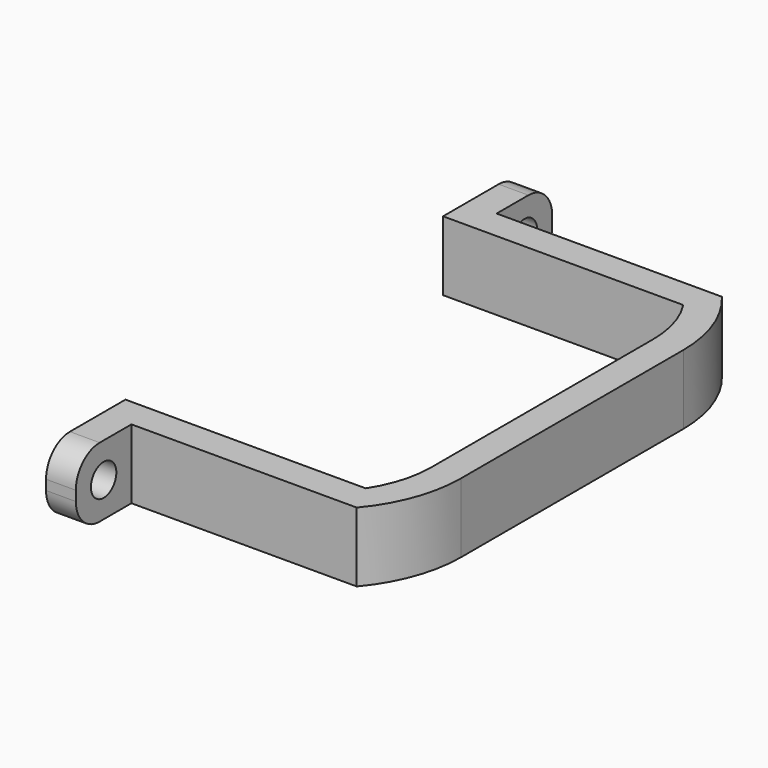
from build123d import *

# Parameters (mm, degrees)
F0_W     = 3
F0_H     = 7
F1_DEPTH = 7
F2_R     = 3
F3_R     = 1.6
F4_DEPTH = 25
F5_R     = 1.6
F6_DEPTH = 25


with BuildPart() as f1:
    # F0 (on Top) → F1 (new body)
    with BuildSketch(Plane.XY):
        with Locations((-18.815929, 24.224132)):
            Rectangle(F0_W, F0_H)
        with BuildLine():
            Line((5.684071, 11.664157), (5.684071, -16.215892))
            ThreePointArc((5.684071, -16.215892), (5.228779, -19.377972), (3.884071, -22.275868))
            Line((3.884071, -22.275868), (-20.315929, -22.275868))
            Line((-20.315929, -22.275868), (-20.315929, -25.275868))
            Line((-20.315929, -25.275868), (-17.315929, -25.275868))
            Line((-17.315929, -25.275868), (5.382678, -25.275868))
            ThreePointArc((5.382678, -25.275868), (7.827057, -21.069053), (8.684071, -16.279711))
            Line((8.684071, -16.279711), (8.684071, 11.727975))
            ThreePointArc((8.684071, 11.727975), (7.827057, 16.517318), (5.382678, 20.724132))
            Line((5.382678, 20.724132), (-17.315929, 20.724132))
            Line((-17.315929, 20.724132), (-20.315929, 20.724132))
            Line((-20.315929, 20.724132), (-20.315929, 17.724132))
            Line((-20.315929, 17.724132), (3.884071, 17.724132))
            ThreePointArc((3.884071, 17.724132), (5.228779, 14.826237), (5.684071, 11.664157))
        make_face()
        with Locations((-18.815929, -28.775868)):
            Rectangle(F0_W, F0_H)
    extrude(amount=F1_DEPTH)

    # F2
    f2_edges = [f1.edges().sort_by_distance(p)[0] for p in [
        (-18.815929, 27.724132, 0),
        (-18.815929, 27.724132, 7),
        (-18.815929, -32.275868, 0),
        (-18.815929, -32.275868, 7),
    ]]
    fillet(f2_edges, radius=F2_R)

    # F3 (on face) → F4 (cut)
    with BuildSketch(Plane.YZ.offset(-17.315929)):
        with Locations((-28.775868, 3.5)):
            Circle(F3_R)
    extrude(amount=-F4_DEPTH, mode=Mode.SUBTRACT)

    # F5 (on face) → F6 (cut)
    with BuildSketch(Plane.YZ.offset(-17.315929)):
        with Locations((24.224132, 3.5)):
            Circle(F5_R)
    extrude(amount=-F6_DEPTH, mode=Mode.SUBTRACT)


solid = f1.part
